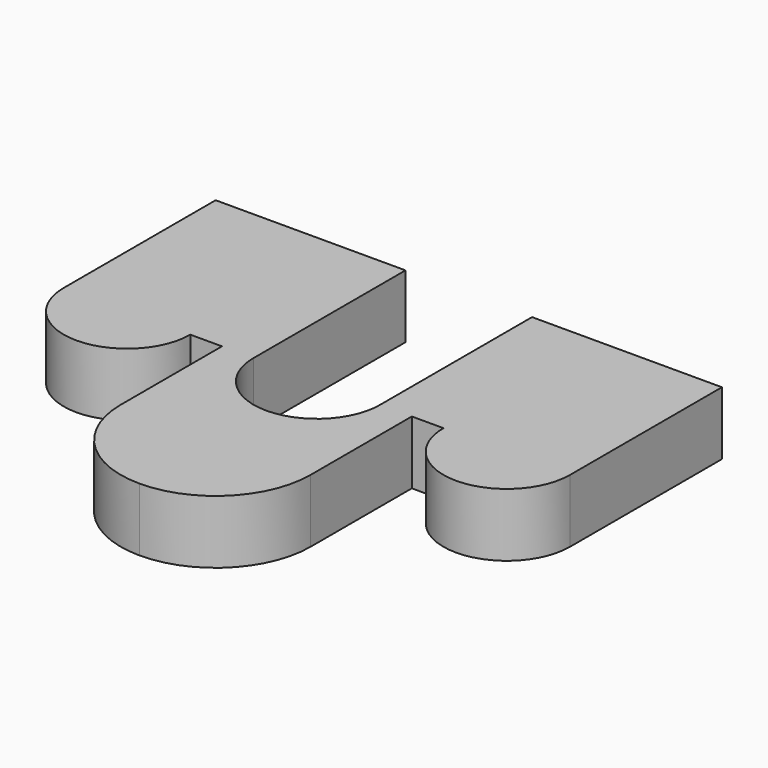
from build123d import *

# Parameters (mm, degrees)
F1_DEPTH = 25.4


with BuildPart() as f1:
    # F0 (on Top) → F1 (new body)
    with BuildSketch(Plane.XY):
        with BuildLine():
            Line((25.4, 37.248519), (-50.8, 37.248519))
            Line((-50.8, 37.248519), (-50.8, -38.951481))
            ThreePointArc((-50.8, -38.951481), (-25.4, -64.351481), (0, -38.951481))
            Line((0, -38.951481), (12.7, -38.951481))
            Line((12.7, -38.951481), (12.7, -89.751481))
            ThreePointArc((12.7, -89.751481), (23.859232, -116.692249), (50.8, -127.851481))
            ThreePointArc((50.8, -127.851481), (77.740768, -116.692249), (88.9, -89.751481))
            Line((88.9, -89.751481), (88.9, -38.951481))
            Line((88.9, -38.951481), (101.6, -38.951481))
            ThreePointArc((101.6, -38.951481), (127, -64.351481), (152.4, -38.951481))
            Line((152.4, -38.951481), (152.4, 37.248519))
            Line((152.4, 37.248519), (76.2, 37.248519))
            Line((76.2, 37.248519), (76.2, -38.951481))
            ThreePointArc((76.2, -38.951481), (68.760512, -56.911993), (50.8, -64.351481))
            ThreePointArc((50.8, -64.351481), (32.839488, -56.911993), (25.4, -38.951481))
            Line((25.4, -38.951481), (25.4, 37.248519))
        make_face()
    extrude(amount=F1_DEPTH)


solid = f1.part
